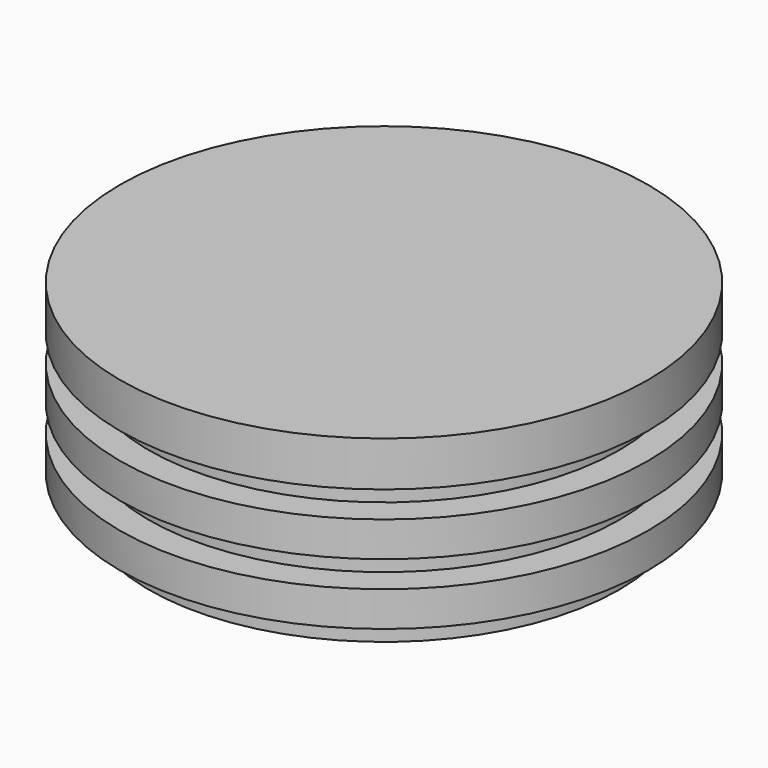
from build123d import *

# Parameters (mm, degrees)
F0_R      = 43
F1_DEPTH  = 7.3
F2_R      = 38.3
F3_DEPTH  = 4.3
F4_R      = 43
F5_DEPTH  = 5.7
F6_R      = 38.3
F7_DEPTH  = 4.3
F8_R      = 43
F9_DEPTH  = 5.7
F10_R     = 38.3
F11_DEPTH = 4.3


with BuildPart() as f1:
    # F0 (on Top) → F1 (new body)
    with BuildSketch(Plane.XY):
        Circle(F0_R)
    extrude(amount=F1_DEPTH)

    # F2 (on face) → F3 (join)
    with BuildSketch(Plane(origin=(0, 0, 0), x_dir=(1, 0, 0), z_dir=(0, 0, -1))):
        Circle(F2_R)
    extrude(amount=F3_DEPTH)

    # F4 (on face) → F5 (join)
    with BuildSketch(Plane(origin=(0, 0, -4.3), x_dir=(1, 0, 0), z_dir=(0, 0, -1))):
        Circle(F4_R)
    extrude(amount=F5_DEPTH)

    # F6 (on face) → F7 (join)
    with BuildSketch(Plane(origin=(0, 0, -10), x_dir=(1, 0, 0), z_dir=(0, 0, -1))):
        Circle(F6_R)
    extrude(amount=F7_DEPTH)

    # F8 (on face) → F9 (join)
    with BuildSketch(Plane(origin=(0, 0, -14.3), x_dir=(1, 0, 0), z_dir=(0, 0, -1))):
        Circle(F8_R)
    extrude(amount=F9_DEPTH)

    # F10 (on face) → F11 (join)
    with BuildSketch(Plane(origin=(0, 0, -20), x_dir=(1, 0, 0), z_dir=(0, 0, -1))):
        Circle(F10_R)
    extrude(amount=F11_DEPTH)


solid = f1.part
